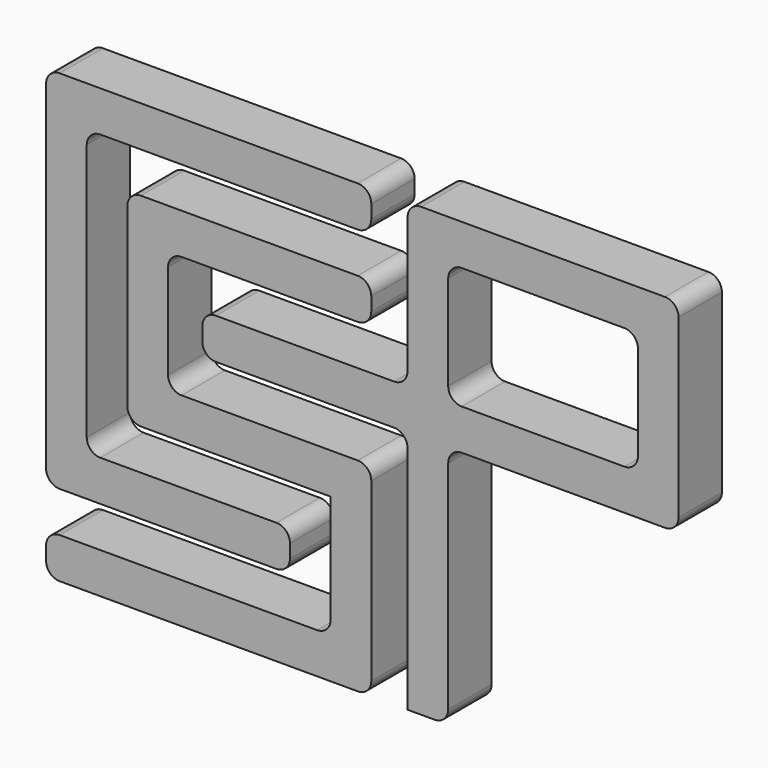
from build123d import *

# Parameters (mm, degrees)
F0_W     = 177.8
F0_H     = 114.3
F1_DEPTH = 50.8
F2_R     = 12.7


with BuildPart() as f1:
    # F0 (on Front) → F1 (new body)
    with BuildSketch(Plane.XZ):
        Polygon((-304.8, 342.9), (-304.8, 0), (-76.2, 0), (-76.2, 38.1), (-266.7, 38.1), (-266.7, 304.8), (0, 304.8), (0, 342.9), align=None)
        Polygon((0, 228.6), (0, 266.7), (-228.6, 266.7), (-228.6, 76.2), (-38.1, 76.2), (-38.1, -38.1), (-304.8, -38.1), (-304.8, -76.2), (0, -76.2), (0, 114.3), (-190.5, 114.3), (-190.5, 228.6), align=None)
        Polygon((33.993531, 190.5), (-158.3675, 190.5), (-158.3675, 152.4), (33.993531, 152.4), (33.993531, -76.2), (72.093531, -76.2), (72.093531, 152.4), (287.993531, 152.4), (287.993531, 342.9), (33.993531, 342.9), align=None)
        with Locations((160.993531, 247.65)):
            Rectangle(F0_W, F0_H, mode=Mode.SUBTRACT)
    extrude(amount=F1_DEPTH)

    # F2
    f2_edges = [f1.edges().sort_by_distance(p)[0] for p in [
        (287.993531, -25.4, 342.9),
        (287.993531, -25.4, 152.4),
        (33.993531, -25.4, 342.9),
        (0, -25.4, 342.9),
        (0, -25.4, 304.8),
        (0, -25.4, 266.7),
        (0, -25.4, 228.6),
        (-158.3675, -25.4, 190.5),
        (-228.6, -25.4, 266.7),
        (-304.8, -25.4, 342.9),
        (-304.8, -25.4, -38.1),
        (0, -25.4, 114.3),
        (72.093531, -25.4, -76.2),
        (0, -25.4, -76.2),
        (-190.5, -25.4, 114.3),
        (-266.7, -25.4, 38.1),
        (-266.7, -25.4, 304.8),
        (-190.5, -25.4, 228.6),
        (-158.3675, -25.4, 152.4),
        (72.093531, -25.4, 304.8),
        (72.093531, -25.4, 152.4),
        (72.093531, -25.4, 190.5),
        (-304.8, -25.4, -76.2),
        (-304.8, -25.4, 0),
        (-228.6, -25.4, 76.2),
        (33.993531, -25.4, 190.5),
        (33.993531, -25.4, 152.4),
        (249.893531, -25.4, 190.5),
        (249.893531, -25.4, 304.8),
        (-76.2, -25.4, 38.1),
        (-38.1, -25.4, -38.1),
        (-76.2, -25.4, 0),
    ]]
    fillet(f2_edges, radius=F2_R)


solid = f1.part
